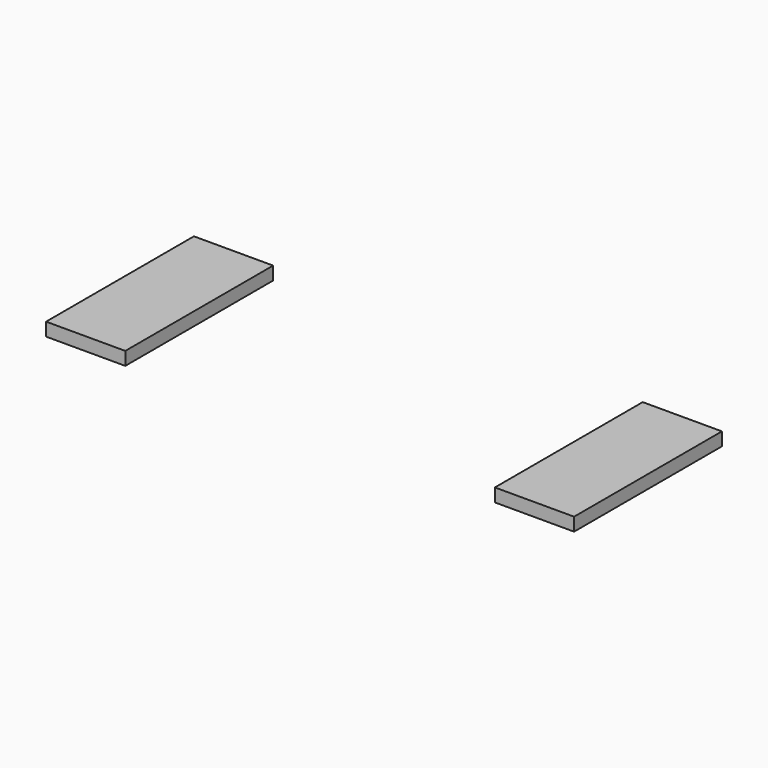
from build123d import *

# Parameters (mm, degrees)
SKETCH036_W  = 0.6
SKETCH036_H  = 1.4
PAD022_DEPTH = 0.1


with BuildPart() as terminal002:
    # Sketch036 → Pad022 (new body)
    with BuildSketch(Plane.XY):
        with Locations((-1.7, 0)):
            Rectangle(SKETCH036_W, SKETCH036_H)
    extrude(amount=PAD022_DEPTH)


with BuildPart() as fusion002:
    # Mirror002: instance of Terminal002
    add(terminal002.part.mirror(Plane(origin=(0, 0, 0), x_dir=(0, -1, 0), z_dir=(1, 0, 0))))

    # Fusion002: union Terminal002
    add(terminal002.part)


solid = fusion002.part
